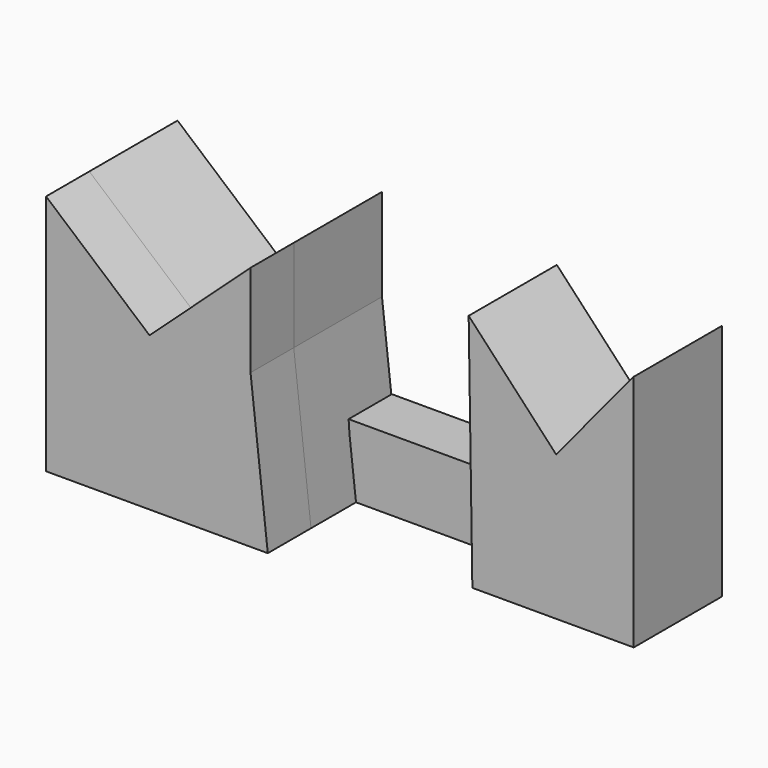
from build123d import *

# Parameters (mm, degrees)
F2_DEPTH = 25.4
F4_DEPTH = 12.446


with BuildPart() as f2:
    # F1 (on face) + F0 (on Front) → F2 (new body)
    with BuildSketch(Plane.XZ):
        Polygon((61.142396, 54.900479), (61.993565, 0), (99.161334, 0), (99.161334, 54.900479), (81.286751, 33.3375), align=None)
    with BuildSketch(Plane.XZ):
        Polygon((-2.411649, 35.323564), (-26.244415, 55.751652), (-26.244415, 0), (24.825796, 0), (20.85367, 35.323564), (20.85367, 56.602821), align=None)
    extrude(amount=F2_DEPTH)


with BuildPart() as f4:
    # F3 (on Front) + F2_face (on face) → F4 (new body)
    with BuildSketch(Plane.XZ):
        Polygon((23.123456, 16.314097), (24.258351, 0), (63.412182, 0), (62.277291, 16.314097), align=None)
    with BuildSketch(Plane(origin=(-1.861203, -25.4, 22.907959), x_dir=(1, 0, 0), z_dir=(0, -1, 0))):
        Polygon((-0.550447, 12.415605), (-24.383212, 32.843692), (-24.383212, -22.907959), (26.686999, -22.907959), (22.714873, 12.415605), (22.714873, 33.694861), align=None)
    extrude(amount=F4_DEPTH)


solid = Compound([f2.part, f4.part])
